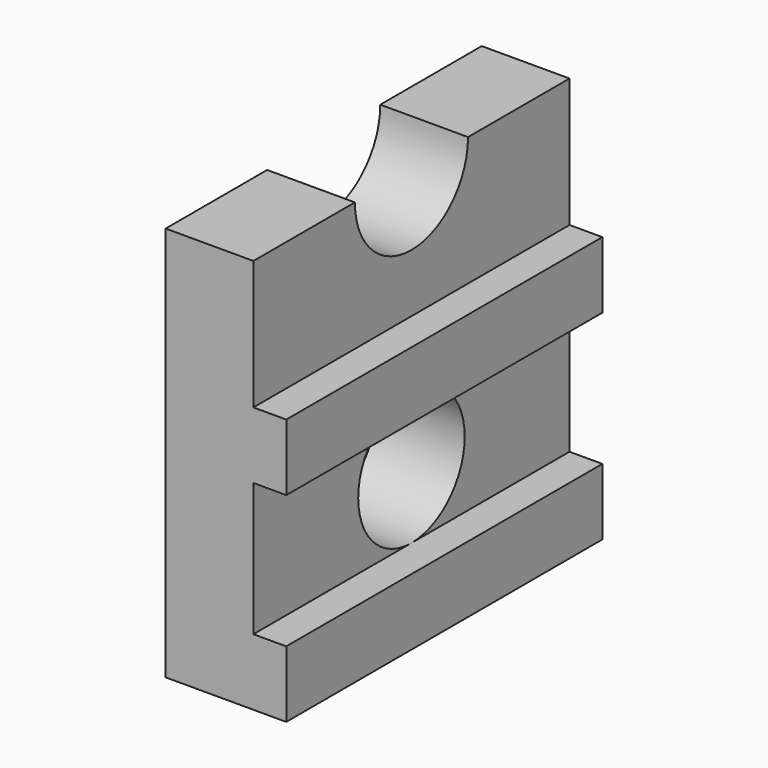
from build123d import *

# Parameters (mm, degrees)
F1_DEPTH = 4.75
F2_R     = 1.7
F3_DEPTH = 2.111
F4_R     = 1.6
F5_DEPTH = 2.111


with BuildPart() as f1:
    # F0 (on Front) → F1 (new body, symmetric)
    with BuildSketch(Plane.XZ):
        Polygon((-1.45, -4.75), (1.45, -4.75), (1.45, -3.15), (0.66, -3.15), (0.66, 0.05), (1.45, 0.05), (1.45, 1.65), (0.66, 1.65), (0.66, 4.75), (-1.45, 4.75), align=None)
    extrude(amount=F1_DEPTH, both=True)

    # F2 (on face) → F3 (cut, through all)
    with BuildSketch(Plane.YZ.offset(0.66)):
        with Locations((0, 4.75)):
            Circle(F2_R)
    extrude(amount=-F3_DEPTH, mode=Mode.SUBTRACT)

    # F4 (on face) → F5 (cut, through all)
    with BuildSketch(Plane.YZ.offset(0.66)):
        with Locations((0, -1.55)):
            Circle(F4_R)
    extrude(amount=-F5_DEPTH, mode=Mode.SUBTRACT)


solid = f1.part
